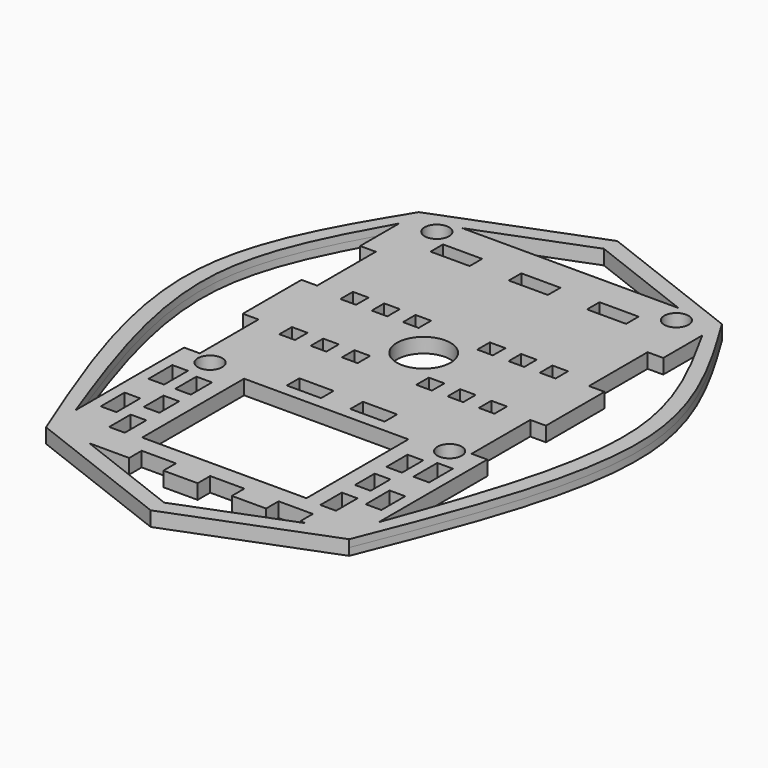
from build123d import *

# Parameters (mm, degrees)
F0_W     = 3.2
F0_H     = 6.1
F0_R     = 2.5
F0_W_2   = 7
F0_H_2   = 3.2
F0_W_3   = 33.5989631712
F0_H_3   = 26.0656554639
F0_W_4   = 8
F0_R_2   = 5.5
F1_DEPTH = 1.5


with BuildPart() as f1:
    # F0 (on Top) → F1 (new body, symmetric)
    with BuildSketch(Plane.XY):
        with BuildLine():
            Line((0, 49.5), (-31, 37.5))
            add(Edge.make_bspline(
                [(-31, 37.5), (-38.1511552694, 25.7567925156), (-53.9932959403, -0.2582411241), (-39.1454927008, -37.415537584), (-31, -57.8)],
                knots=[0, 0, 0, 0, 0.4514008187, 1, 1, 1, 1], degree=3))
            Line((-31, -57.8), (0, -69.8))
            Line((0, -69.8), (31, -57.8))
            add(Edge.make_bspline(
                [(31, 37.5), (38.1511552694, 25.7567925156), (53.9932959403, -0.2582411241), (39.1454927008, -37.415537584), (31, -57.8)],
                knots=[0, 0, 0, 0, 0.4514008187, 1, 1, 1, 1], degree=3))
            Line((31, 37.5), (0, 49.5))
        make_face()
        with Locations((-27.1, -43.65)):
            Rectangle(F0_W, F0_H, mode=Mode.SUBTRACT)
        Polygon((-20, -45.92561), (-20, -50.12561), (-20, -51.42561), (-23.2, -51.42561), (-23.2, -50.12561), (-23.2, -45.92561), align=None, mode=Mode.SUBTRACT)
        Polygon((-20, -37.52561), (-20, -41.72561), (-20, -42.5726920366), (-23.2, -42.5726920366), (-23.2, -41.72561), (-23.2, -37.52561), align=None, mode=Mode.SUBTRACT)
        with Locations((-27.1, -31.45)):
            Rectangle(F0_W, F0_H, mode=Mode.SUBTRACT)
        Polygon((-20, -29.12561), (-20, -33.32561), (-20, -34.545276314), (-23.2, -34.545276314), (-23.2, -33.32561), (-23.2, -29.12561), align=None, mode=Mode.SUBTRACT)
        with Locations((-24.5, -24)):
            Circle(F0_R, mode=Mode.SUBTRACT)
        with Locations((-6.5, -20.9)):
            Rectangle(F0_W_2, F0_H_2, mode=Mode.SUBTRACT)
        Polygon((0, -66.37), (-22.14, -57.8), (-14, -57.8), (-14, -54.6), (-7, -54.6), (-7, -57.8), (0, -57.8), (0, -54.6), (7, -54.6), (7, -57.8), (14, -57.8), (14, -54.6), (21, -54.6), (21, -57.8), (22.14, -57.8), align=None, mode=Mode.SUBTRACT)
        Polygon((20, -50.12561), (20, -45.92561), (23.2, -45.92561), (23.2, -50.12561), (23.2, -51.42561), (20, -51.42561), align=None, mode=Mode.SUBTRACT)
        Polygon((20, -37.52561), (23.2, -37.52561), (23.2, -41.72561), (23.2, -42.5726920366), (20, -42.5726920366), (20, -41.72561), align=None, mode=Mode.SUBTRACT)
        with Locations((27.1, -43.65)):
            Rectangle(F0_W, F0_H, mode=Mode.SUBTRACT)
        with Locations((0, -37.95)):
            Rectangle(F0_W_3, F0_H_3, mode=Mode.SUBTRACT)
        Polygon((20, -29.12561), (23.2, -29.12561), (23.2, -33.32561), (23.2, -34.545276314), (20, -34.545276314), (20, -33.32561), align=None, mode=Mode.SUBTRACT)
        with Locations((6.5, -20.9)):
            Rectangle(F0_W_2, F0_H_2, mode=Mode.SUBTRACT)
        with Locations((24.5, -24)):
            Circle(F0_R, mode=Mode.SUBTRACT)
        with Locations((27.1, -31.45)):
            Rectangle(F0_W, F0_H, mode=Mode.SUBTRACT)
        with BuildLine():
            Line((-31, -22.5), (-31, -32.5))
            Line((-31, -32.5), (-31, -50.3))
            add(Edge.make_bspline(
                [(-31, 32.5), (-36.6370197512, 22.3171385617), (-49.1609689327, -0.3064541885), (-37.4434647152, -32.5624194988), (-31, -50.3)],
                knots=[0, 0, 0, 0, 0.4500992195, 1, 1, 1, 1], degree=3))
            Line((-31, 32.5), (-31, 22.5))
            Line((-31, 22.5), (-27.8, 22.5))
            Line((-27.8, 22.5), (-27.8, 7.5))
            Line((-27.8, 7.5), (-31, 7.5))
            Line((-31, 7.5), (-31, -7.5))
            Line((-31, -7.5), (-27.8, -7.5))
            Line((-27.8, -7.5), (-27.8, -22.5))
            Line((-27.8, -22.5), (-31, -22.5))
        make_face(mode=Mode.SUBTRACT)
        with Locations((-20.4, -7.8)):
            Rectangle(F0_W, F0_H_2, mode=Mode.SUBTRACT)
        with Locations((-14, -7.8)):
            Rectangle(F0_W, F0_H_2, mode=Mode.SUBTRACT)
        with Locations((-7.6, -7.8)):
            Rectangle(F0_W, F0_H_2, mode=Mode.SUBTRACT)
        with Locations((-20.4, 7.8)):
            Rectangle(F0_W, F0_H_2, mode=Mode.SUBTRACT)
        with Locations((-14, 7.8)):
            Rectangle(F0_W, F0_H_2, mode=Mode.SUBTRACT)
        with Locations((-7.6, 7.8)):
            Rectangle(F0_W, F0_H_2, mode=Mode.SUBTRACT)
        with Locations((-24.5, 34)):
            Circle(F0_R, mode=Mode.SUBTRACT)
        with Locations((-17, 29.6)):
            Rectangle(F0_W_4, F0_H_2, mode=Mode.SUBTRACT)
        with Locations((-1, 29.6)):
            Rectangle(F0_W_4, F0_H_2, mode=Mode.SUBTRACT)
        with Locations((7.6, -7.8)):
            Rectangle(F0_W, F0_H_2, mode=Mode.SUBTRACT)
        Circle(F0_R_2, mode=Mode.SUBTRACT)
        with Locations((14, -7.8)):
            Rectangle(F0_W, F0_H_2, mode=Mode.SUBTRACT)
        with Locations((20.4, -7.8)):
            Rectangle(F0_W, F0_H_2, mode=Mode.SUBTRACT)
        with Locations((7.6, 7.8)):
            Rectangle(F0_W, F0_H_2, mode=Mode.SUBTRACT)
        with Locations((14, 7.8)):
            Rectangle(F0_W, F0_H_2, mode=Mode.SUBTRACT)
        with Locations((20.4, 7.8)):
            Rectangle(F0_W, F0_H_2, mode=Mode.SUBTRACT)
        with BuildLine():
            Line((27.8, 7.5), (27.8, 22.5))
            Line((27.8, 22.5), (31, 22.5))
            Line((31, 22.5), (31, 32.5))
            add(Edge.make_bspline(
                [(31, 32.5), (36.6370197512, 22.3171385617), (49.1609689327, -0.3064541885), (37.4434647152, -32.5624194988), (31, -50.3)],
                knots=[0, 0, 0, 0, 0.4500992195, 1, 1, 1, 1], degree=3))
            Line((31, -50.3), (31, -32.5))
            Line((31, -32.5), (31, -22.5))
            Line((31, -22.5), (27.8, -22.5))
            Line((27.8, -22.5), (27.8, -7.5))
            Line((27.8, -7.5), (31, -7.5))
            Line((31, -7.5), (31, 7.5))
            Line((31, 7.5), (27.8, 7.5))
        make_face(mode=Mode.SUBTRACT)
        with Locations((15, 29.6)):
            Rectangle(F0_W_4, F0_H_2, mode=Mode.SUBTRACT)
        with Locations((24.5, 34)):
            Circle(F0_R, mode=Mode.SUBTRACT)
        Polygon((22.1355892594, 37.5), (0, 37.5), (-22.1355892594, 37.5), (0, 46.0686151972), align=None, mode=Mode.SUBTRACT)
    extrude(amount=F1_DEPTH, both=True)


solid = f1.part
